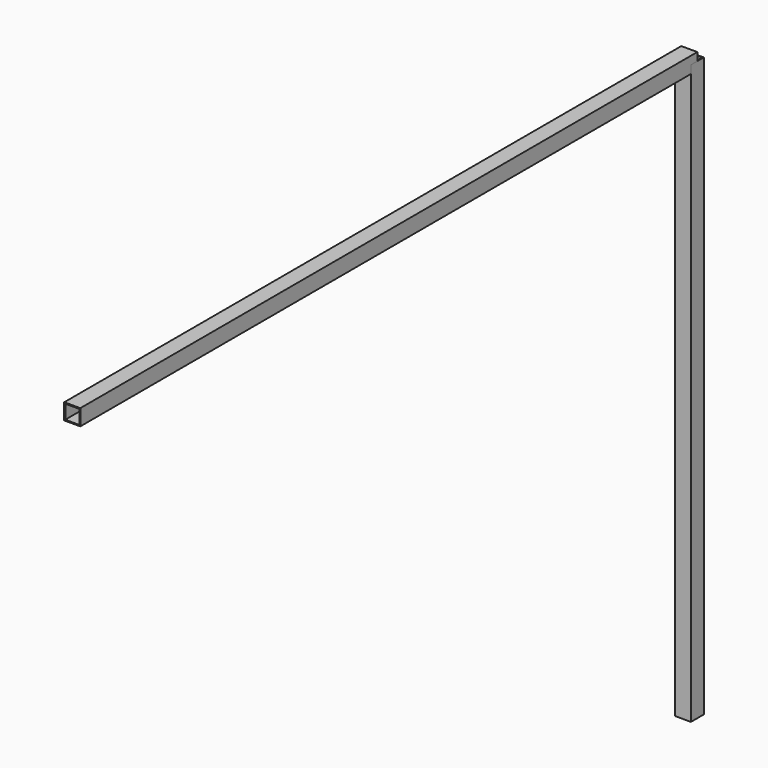
from build123d import *

# Parameters (mm, degrees)
SKETCH_W            = 50.8
SKETCH_H            = 50.8
SKETCH_W_2          = 44.45
SKETCH_H_2          = 44.45
PAD_DEPTH           = 2438.4
SKETCHBINDER001_W   = 50.8
SKETCHBINDER001_H   = 50.8
SKETCHBINDER001_W_2 = 44.45
SKETCHBINDER001_H_2 = 44.45
PAD6FT_DEPTH        = 1828.8


with BuildPart() as f_8_tubing:
    # Sketch → Pad (new body)
    with BuildSketch(Plane.XZ):
        Rectangle(SKETCH_W, SKETCH_H)
        Rectangle(SKETCH_W_2, SKETCH_H_2, mode=Mode.SUBTRACT)
    extrude(amount=PAD_DEPTH)


with BuildPart() as f_6_tubing:
    # SketchBinder001 → Pad6ft (new body)
    with BuildSketch(Plane(origin=(0, 0, 0), x_dir=(0, 1, 0), z_dir=(0, 0, 1))):
        Rectangle(SKETCHBINDER001_W, SKETCHBINDER001_H)
        Rectangle(SKETCHBINDER001_W_2, SKETCHBINDER001_H_2, mode=Mode.SUBTRACT)
    extrude(amount=-PAD6FT_DEPTH)


solid = Compound([f_8_tubing.part, f_6_tubing.part])
